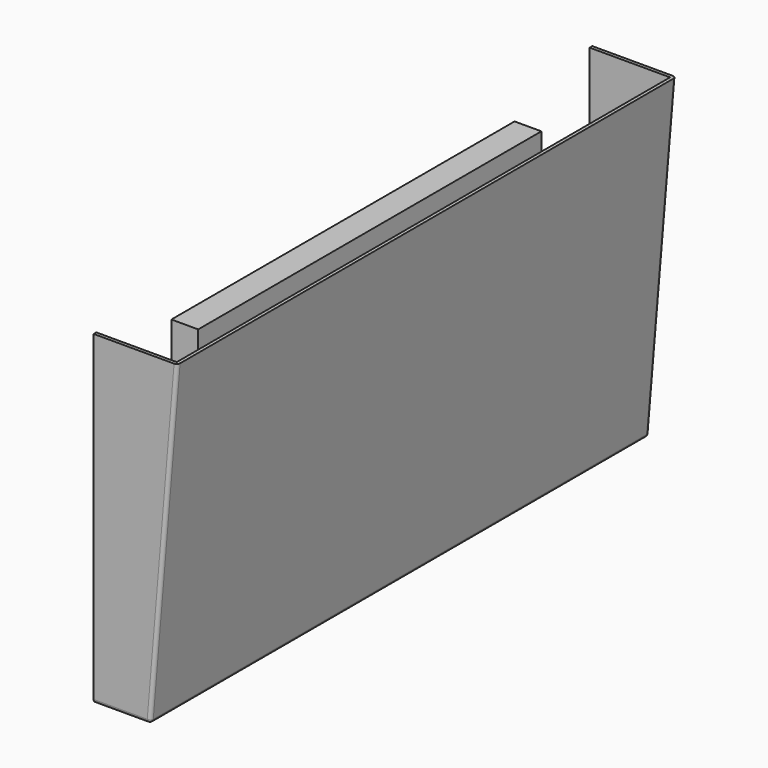
from build123d import *

# Parameters (mm, degrees)
SKETCH_W     = 406.4
SKETCH_H     = 254
PAD_DEPTH    = 25.4
PAD001_DEPTH = 292.1
THICKNESS_T  = 3.175


with BuildPart() as filter001:
    # Sketch → Pad (new body)
    with BuildSketch(Plane.YZ):
        with Locations((0, -25.4)):
            Rectangle(SKETCH_W, SKETCH_H)
    extrude(amount=PAD_DEPTH)


with BuildPart() as transition:
    # Sketch001 → Pad001 (new body, symmetric)
    with BuildSketch(Plane.XZ):
        Polygon((0, -177.8), (50.8, -177.8), (76.2, 127), (0, 127), align=None)
    extrude(amount=PAD001_DEPTH, both=True)

    # Thickness
    thickness_openings = [transition.faces().sort_by_distance(p)[0] for p in [
        (38.1, 0, 127),
        (0, 0, -25.4),
    ]]
    offset(amount=THICKNESS_T, openings=thickness_openings)


solid = Compound([filter001.part, transition.part])
